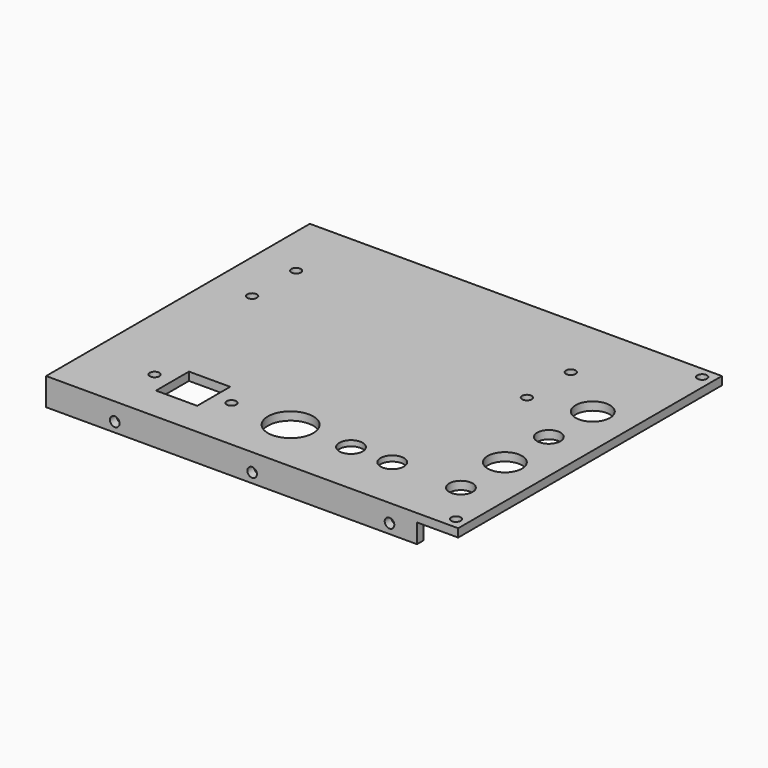
from build123d import *

# Parameters (mm, degrees)
COPYSKETCH010_W   = 150
COPYSKETCH010_H   = 120
COPYSKETCH010_R   = 1.75
COPYSKETCH010_R_2 = 4.25
COPYSKETCH010_R_3 = 6.25
COPYSKETCH010_R_4 = 8.25
COPYSKETCH010_W_2 = 15
COPYSKETCH010_H_2 = 15
PAD_DEPTH         = 3
PAD001_DEPTH      = 7
SKETCH001_R       = 1.75
POCKET_DEPTH      = 225.01
SKETCH002_R       = 1.75
POCKET001_DEPTH   = 5.01
SKETCH003_W       = 33
SKETCH003_H       = 20
POCKET002_DEPTH   = 1


with BuildPart() as part:
    # CopySketch010 → Pad (new body)
    with BuildSketch(Plane(origin=(0, 0, 0), x_dir=(-1, 0, 0), z_dir=(0, 0, -1))):
        with Locations((-75, 0)):
            Rectangle(COPYSKETCH010_W, COPYSKETCH010_H)
        with Locations((-146, 56)):
            Circle(COPYSKETCH010_R, mode=Mode.SUBTRACT)
        with Locations((-146, -56)):
            Circle(COPYSKETCH010_R, mode=Mode.SUBTRACT)
        with Locations((-110, -40)):
            Circle(COPYSKETCH010_R_2, mode=Mode.SUBTRACT)
        with Locations((-95, -40)):
            Circle(COPYSKETCH010_R_2, mode=Mode.SUBTRACT)
        with Locations((-51.5, -40)):
            Circle(COPYSKETCH010_R, mode=Mode.SUBTRACT)
        with Locations((-23.5, -40)):
            Circle(COPYSKETCH010_R, mode=Mode.SUBTRACT)
        with Locations((-135, -40)):
            Circle(COPYSKETCH010_R_2, mode=Mode.SUBTRACT)
        with Locations((-135, -20)):
            Circle(COPYSKETCH010_R_3, mode=Mode.SUBTRACT)
        with Locations((-73, -40)):
            Circle(COPYSKETCH010_R_4, mode=Mode.SUBTRACT)
        with Locations((-135, 0)):
            Circle(COPYSKETCH010_R_2, mode=Mode.SUBTRACT)
        with Locations((-135, 20)):
            Circle(COPYSKETCH010_R_3, mode=Mode.SUBTRACT)
        with Locations((-115, 35)):
            Circle(COPYSKETCH010_R, mode=Mode.SUBTRACT)
        with Locations((-115, 15)):
            Circle(COPYSKETCH010_R, mode=Mode.SUBTRACT)
        with Locations((-15, 35)):
            Circle(COPYSKETCH010_R, mode=Mode.SUBTRACT)
        with Locations((-15, 15)):
            Circle(COPYSKETCH010_R, mode=Mode.SUBTRACT)
        with Locations((-37.5, -40)):
            Rectangle(COPYSKETCH010_W_2, COPYSKETCH010_H_2, mode=Mode.SUBTRACT)
    extrude(amount=PAD_DEPTH)

    # Sketch (on DatumPlane) → Pad001 (join)
    with BuildSketch(Plane.XY.offset(-3)):
        Polygon((135, 60), (135, 57), (3, 57), (3, -57), (135, -57), (135, -60), (0, -60), (0, 60), align=None)
    extrude(amount=-PAD001_DEPTH)

    # Sketch001 (on Face6 of Pad001) → Pocket (cut)
    with BuildSketch(Plane(origin=(0, 60, 0), x_dir=(-1, 0, 0), z_dir=(0, 1, 0))):
        with Locations((-25, -6.5)):
            Circle(SKETCH001_R)
        with Locations((-125, -6.5)):
            Circle(SKETCH001_R)
        with Locations((-75, -6.5)):
            Circle(SKETCH001_R)
    extrude(amount=-POCKET_DEPTH, mode=Mode.SUBTRACT)

    # Sketch002 (on Face8 of Pocket) → Pocket001 (cut)
    with BuildSketch(Plane(origin=(0, 0, 0), x_dir=(0, -1, 0), z_dir=(-1, 0, 0))):
        with Locations((50, -6.5)):
            Circle(SKETCH002_R)
        with Locations((-50, -6.5)):
            Circle(SKETCH002_R)
        with Locations((0, -6.5)):
            Circle(SKETCH002_R)
    extrude(amount=-POCKET001_DEPTH, mode=Mode.SUBTRACT)

    # Sketch003 (on Face5 of Pocket001) → Pocket002 (cut)
    with BuildSketch(Plane(origin=(0, 0, -3), x_dir=(1, 0, 0), z_dir=(0, 0, -1))):
        with Locations((102.5, 40)):
            Rectangle(SKETCH003_W, SKETCH003_H)
    extrude(amount=-POCKET002_DEPTH, mode=Mode.SUBTRACT)


solid = part.part
